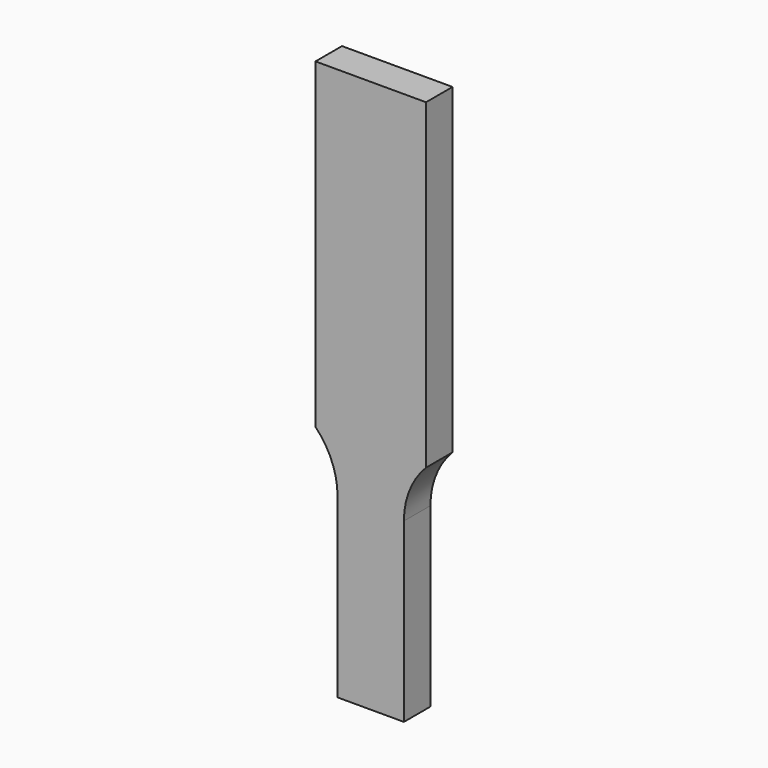
from build123d import *

# Parameters (mm, degrees)
F1_DEPTH = 3


with BuildPart() as f1:
    # F0 (on Front) → F1 (new body)
    with BuildSketch(Plane.XZ):
        with BuildLine():
            Line((-3, 0), (3, 0))
            Line((3, 0), (3, 16))
            ThreePointArc((3, 16), (3.519259, 18.645751), (5, 20.898979))
            Line((5, 20.898979), (5, 50))
            Line((5, 50), (0, 50))
            Line((0, 50), (-5, 50))
            Line((-5, 50), (-5, 20.898979))
            ThreePointArc((-5, 20.898979), (-3.519259, 18.645751), (-3, 16))
            Line((-3, 16), (-3, 0))
        make_face()
    extrude(amount=F1_DEPTH)


solid = f1.part
